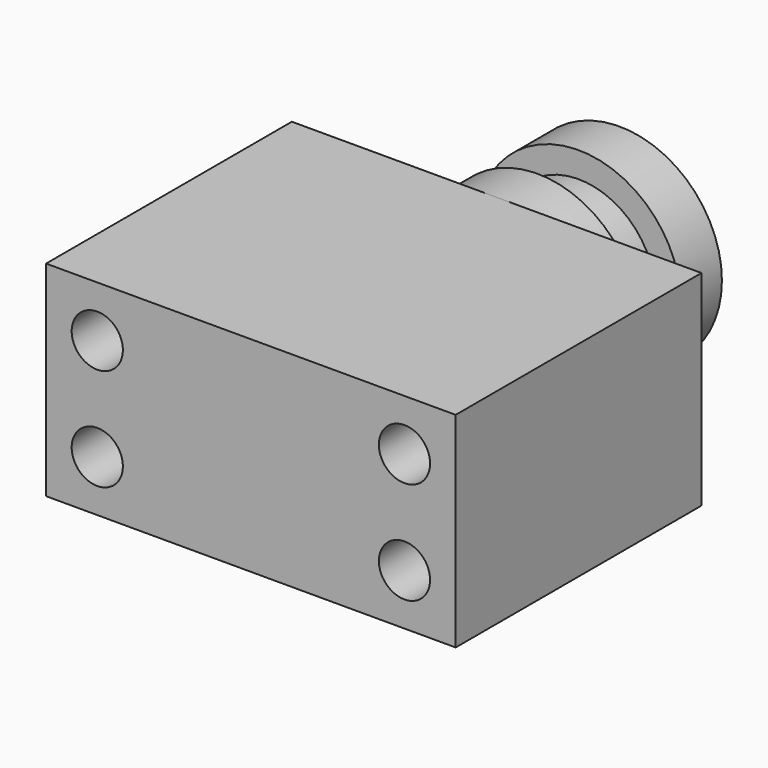
from build123d import *

# Parameters (mm, degrees)
F0_W     = 101.6
F0_H     = 50.8
F1_DEPTH = 76.2
F2_R     = 6.35
F3_DEPTH = 76.201
F4_W     = 25.4
F4_H     = 38.1
F6_W     = 6.35
F6_H     = 12.7


with BuildPart() as f1:
    # F0 (on Front) → F1 (new body)
    with BuildSketch(Plane.XZ):
        Rectangle(F0_W, F0_H)
    extrude(amount=-F1_DEPTH)

    # F2 (on face) → F3 (cut, through all)
    with BuildSketch(Plane.XZ):
        with Locations((-38.1, 12.7)):
            Circle(F2_R)
        with Locations((-38.1, -12.7)):
            Circle(F2_R)
        with Locations((38.1, -12.7)):
            Circle(F2_R)
        with Locations((38.1, 12.7)):
            Circle(F2_R)
    extrude(amount=-F3_DEPTH, mode=Mode.SUBTRACT)

    # F4 (on Top) → F5 (revolve)
    with BuildSketch(Plane.XY):
        with Locations((12.7, 95.25)):
            Rectangle(F4_W, F4_H)
    revolve(axis=Axis((0, 95.25, 0), (0, 1, 0)))

    # F6 (on Top) → F7 (revolve, cut)
    with BuildSketch(Plane.XY):
        with Locations((22.225, 95.25)):
            Rectangle(F6_W, F6_H)
    revolve(axis=Axis((0, 70.217416, 0), (0, 1, 0)), mode=Mode.SUBTRACT)


solid = f1.part
